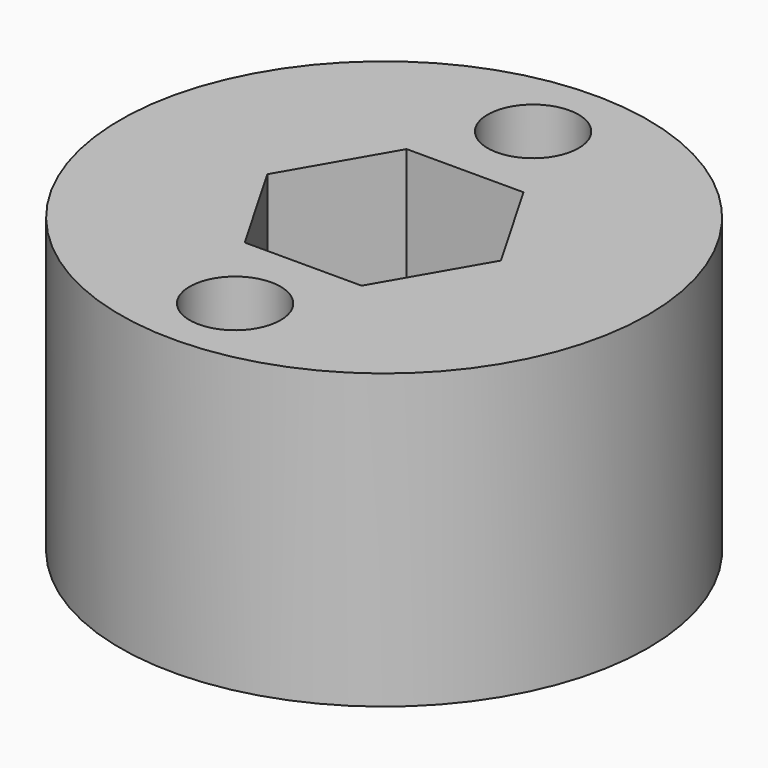
from build123d import *

# Parameters (mm, degrees)
F0_R     = 9
F0_R_2   = 1.55
F1_DEPTH = 10


with BuildPart() as f1:
    # F0 (on Top) → F1 (new body)
    with BuildSketch(Plane.XY):
        Circle(F0_R)
        with Locations((0, -6.35)):
            Circle(F0_R_2, mode=Mode.SUBTRACT)
        with Locations((-6.35, 0)):
            Circle(F0_R_2, mode=Mode.SUBTRACT)
        Polygon((-3.983717, 0), (-1.991858, 3.45), (1.991858, 3.45), (3.983717, 0), (1.991858, -3.45), (-1.991858, -3.45), align=None, mode=Mode.SUBTRACT)
        with Locations((6.35, 0)):
            Circle(F0_R_2, mode=Mode.SUBTRACT)
        with Locations((0, 6.35)):
            Circle(F0_R_2, mode=Mode.SUBTRACT)
        with Locations((-6.35, 0)):
            Circle(F0_R_2)
        with Locations((6.35, 0)):
            Circle(F0_R_2)
    extrude(amount=F1_DEPTH)


solid = f1.part
